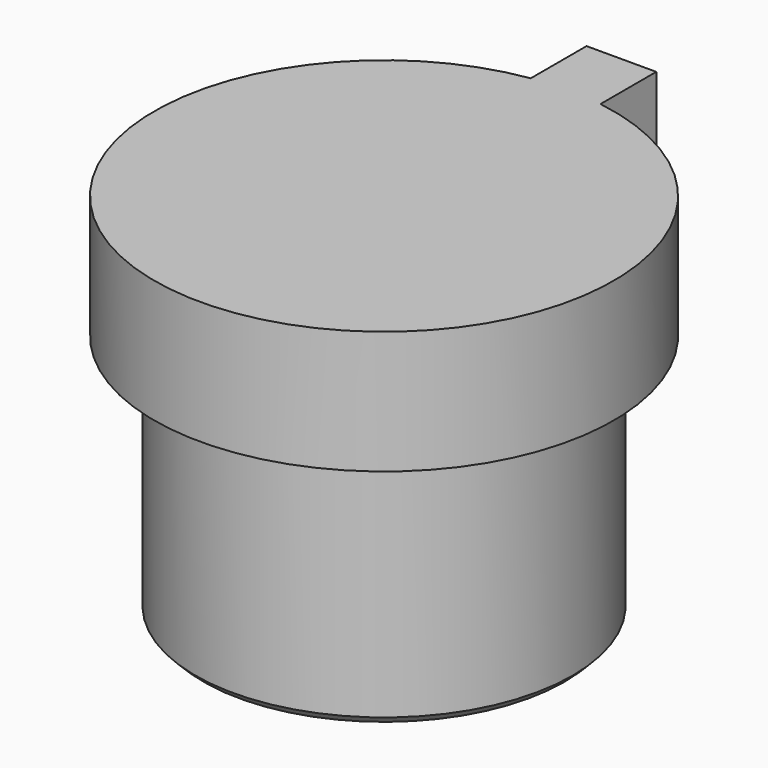
from build123d import *

# Parameters (mm, degrees)
SKETCH061_R     = 2.3
PAD042_DEPTH    = 3
PAD043_DEPTH    = 1.5
POCKET012_DEPTH = 0.6
CHAMFER006_SIZE = 0.1


with BuildPart() as part:
    # Sketch061 → Pad042 (new body)
    with BuildSketch(Plane.XY):
        Circle(SKETCH061_R)
    extrude(amount=PAD042_DEPTH)

    # Sketch062 (on Face3 of Pad042) → Pad043 (join)
    with BuildSketch(Plane.XY.offset(3)):
        with BuildLine():
            Line((0.425, 2.767558), (0.425, 3.617558))
            Line((0.425, 3.617558), (-0.425, 3.617558))
            Line((-0.425, 3.617558), (-0.425, 2.767558))
            ThreePointArc((-0.425, 2.767558), (0, -2.8), (0.425, 2.767558))
        make_face()
    extrude(amount=PAD043_DEPTH)

    # Sketch063 → Pocket012 (cut)
    with BuildSketch(Plane.XY):
        Polygon((-0.5, 0.5), (-1.5, 0.5), (-1.5, -0.5), (-0.5, -0.5), (-0.5, -1.5), (0.5, -1.5), (0.5, -0.5), (1.5, -0.5), (1.5, 0.5), (0.5, 0.5), (0.5, 1.5), (-0.5, 1.5), align=None)
    extrude(amount=POCKET012_DEPTH, mode=Mode.SUBTRACT)

    # Chamfer006
    chamfer006_edges = [part.edges().sort_by_distance(p)[0] for p in [
        (-1, 0.5, 0),
        (-2.3, 0, 0),
        (-1.5, 0, 0),
        (-1, -0.5, 0),
        (-0.5, -1, 0),
        (0, -1.5, 0),
        (0.5, -1, 0),
        (1, -0.5, 0),
        (1.5, 0, 0),
        (1, 0.5, 0),
        (0.5, 1, 0),
        (0, 1.5, 0),
        (-0.5, 1, 0),
    ]]
    chamfer(chamfer006_edges, length=CHAMFER006_SIZE)


with BuildPart() as part_1:
    # Body018 placement: moved
    add(part.part.moved(Location((63.6, 11.5, -1.5))))


solid = part_1.part
